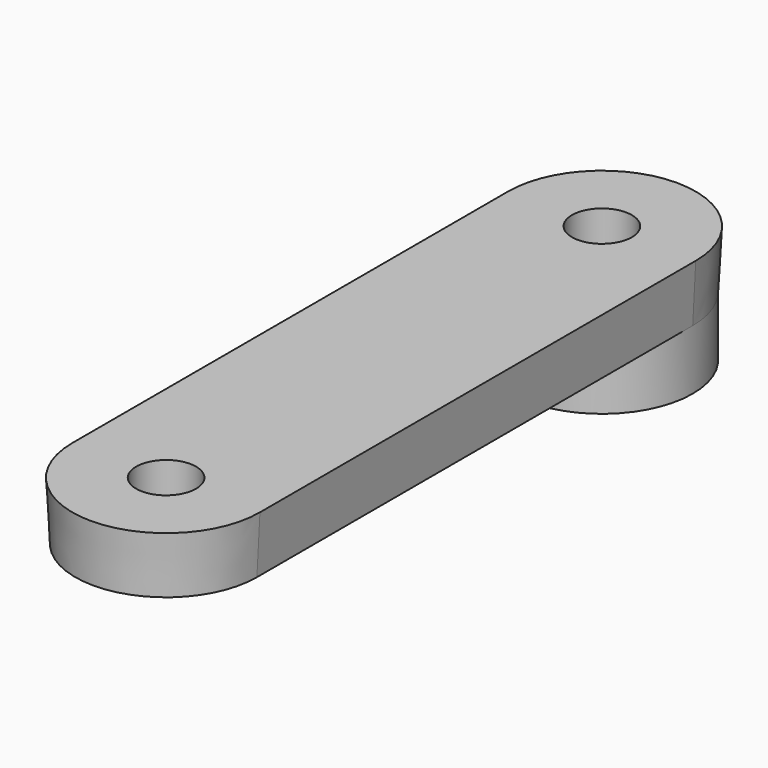
from build123d import *

# Parameters (mm, degrees)
F1_R     = 1.65
F2_DEPTH = 3.2
F2_TAPER = -3
F0_R     = 1.65
F3_DEPTH = 3.2
F5_R     = 5
F6_DEPTH = 3.3
F4_R     = 1.65
F7_DEPTH = 3.3
F8_R     = 1.65
F9_DEPTH = 3.2


with BuildPart() as f2:
    # F1 (on Top) → F2 (new body)
    with BuildSketch(Plane.XY):
        with BuildLine():
            ThreePointArc((-5, 0), (0, -5), (5, 0))
            ThreePointArc((5, 0), (0, 5), (-5, 0))
        make_face()
        Circle(F1_R, mode=Mode.SUBTRACT)
        with BuildLine():
            Line((5, -30), (5, 0))
            ThreePointArc((5, 0), (0, -5), (-5, 0))
            Line((-5, 0), (-5, -30))
            ThreePointArc((-5, -30), (0, -25), (5, -30))
        make_face()
        with BuildLine():
            ThreePointArc((-5, -30), (0, -35), (5, -30))
            ThreePointArc((5, -30), (0, -25), (-5, -30))
        make_face()
    extrude(amount=F2_DEPTH, taper=F2_TAPER)

    # F0 (on Top) → F3 (cut)
    with BuildSketch(Plane.XY):
        Circle(F0_R)
    extrude(amount=F3_DEPTH, mode=Mode.SUBTRACT)

    # F5 (on Top) → F6 (join)
    with BuildSketch(Plane.XY):
        Circle(F5_R)
    extrude(amount=-F6_DEPTH)

    # F4 (on Top) → F7 (cut)
    with BuildSketch(Plane.XY):
        Circle(F4_R)
    extrude(amount=-F7_DEPTH, mode=Mode.SUBTRACT)

    # F8 (on Top) → F9 (cut)
    with BuildSketch(Plane.XY):
        with Locations((0, -30)):
            Circle(F8_R)
    extrude(amount=F9_DEPTH, mode=Mode.SUBTRACT)


solid = f2.part
